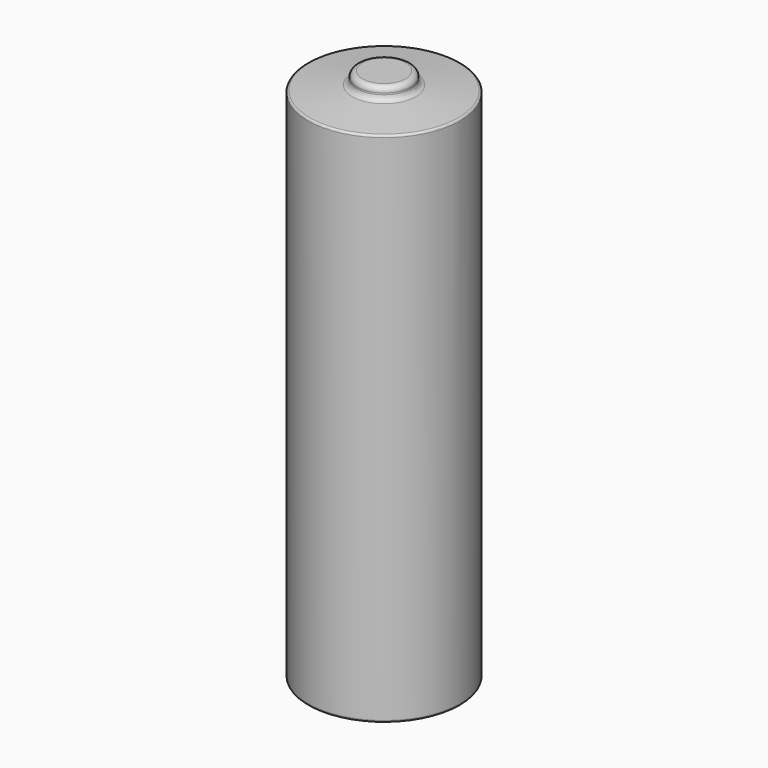
from build123d import *

# Parameters (mm, degrees)
F0_R     = 7.05
F1_DEPTH = 47.8
F2_R     = 4.325
F3_DEPTH = 1.1
F4_R     = 2.5
F5_DEPTH = 0.5
F6_R     = 7.05
F7_R     = 2.5
F9_DEPTH = 1.1
F10_R    = 0.5
F11_R    = 0.5
F12_R    = 0.5
F13_R    = 0.2
F14_R    = 0.2


with BuildPart() as f1:
    # F0 (on Top) → F1 (new body)
    with BuildSketch(Plane.XY):
        Circle(F0_R)
    extrude(amount=F1_DEPTH)

    # F2 (on face) → F3 (join)
    with BuildSketch(Plane(origin=(0, 0, 0), x_dir=(1, 0, 0), z_dir=(0, 0, -1))):
        Circle(F2_R)
    extrude(amount=F3_DEPTH)

    # F4 (on face) → F5 (join)
    with BuildSketch(Plane.XY.offset(47.8)):
        Circle(F4_R)
    extrude(amount=F5_DEPTH)

    # F6 (on face) → F8 section 0
    with BuildSketch(Plane.XY.offset(47.8)):
        Circle(F6_R)
    # F7 (on face) → F8 section 1
    with BuildSketch(Plane.XY.offset(48.3)):
        Circle(F7_R)
    loft()

    # F7 (on face) → F9 (join)
    with BuildSketch(Plane.XY.offset(48.3)):
        Circle(F7_R)
    extrude(amount=F9_DEPTH)

    # F10
    f10_edges = [f1.edges().sort_by_distance(p)[0] for p in [
        (-4.325, 0, -1.1),
    ]]
    fillet(f10_edges, radius=F10_R)

    # F11
    f11_edges = [f1.edges().sort_by_distance(p)[0] for p in [
        (-2.5, 0, 49.4),
    ]]
    fillet(f11_edges, radius=F11_R)

    # F12
    f12_edges = [f1.edges().sort_by_distance(p)[0] for p in [
        (-2.5, 0, 48.3),
    ]]
    fillet(f12_edges, radius=F12_R)

    # F13
    f13_edges = [f1.edges().sort_by_distance(p)[0] for p in [
        (-7.05, 0, 47.8),
    ]]
    fillet(f13_edges, radius=F13_R)

    # F14
    f14_edges = [f1.edges().sort_by_distance(p)[0] for p in [
        (-7.05, 0, 0),
    ]]
    fillet(f14_edges, radius=F14_R)


solid = f1.part
